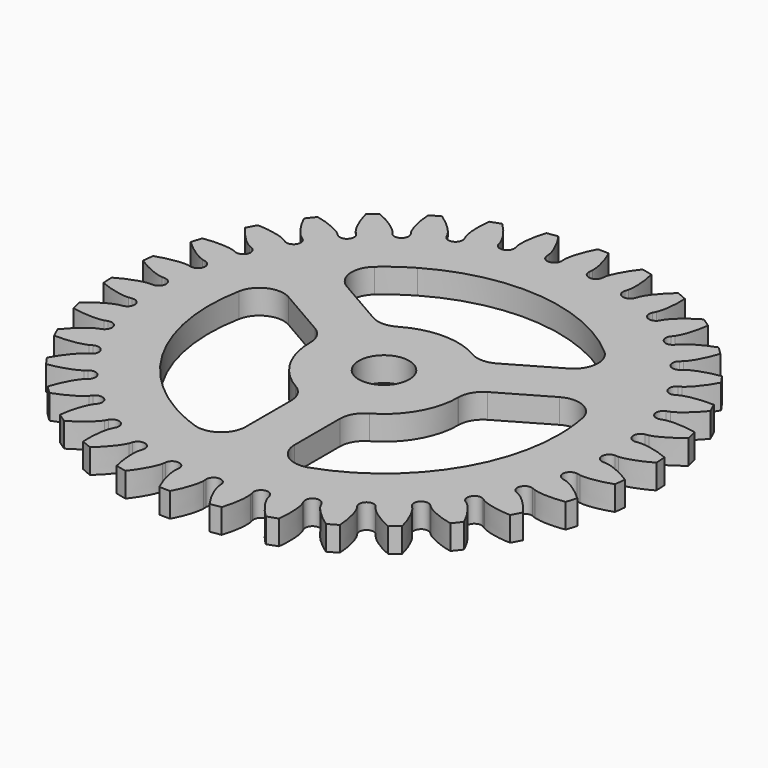
from build123d import *

# Parameters (mm, degrees)
F4_DEPTH  = 6
F6_DEPTH  = 6
F3_R      = 54
F7_DEPTH  = 5
F8_COUNT  = 34
F11_DEPTH = 25
F12_DEPTH = 6
F13_R     = 5
F14_COUNT = 3


with BuildPart() as f4:
    # F2 (on Top) → F4 (new body)
    with BuildSketch(Plane.XY):
        with BuildLine():
            ThreePointArc((53.7142146983, -5.5482555225), (53.9285063473, -2.7778054549), (54, 0))
            ThreePointArc((54, 0), (53.9890176434, 1.0890242883), (53.9560750407, 2.1776056116))
            add(Edge.make_bspline(
                [(47.9243236601, 0), (48.0582701517, 0.0066866969), (47.9929157343, 0.0001974192), (48.5234306024, 0.0528741689), (49.1268875828, 0.1743833571), (50.052741865, 0.4182800977), (51.1888322925, 0.818839597), (52.5028457734, 1.387829983), (53.481906308, 1.9101796025), (53.9560750407, 2.1776056116)],
                knots=[0, 0, 0, 0, 0.0334560849, 0.0914017211, 0.1662090091, 0.2547221185, 0.3550865192, 0.4660435214, 0.5789490517, 0.5789490517, 0.5789490517, 0.5789490517], degree=3))
            Line((47.9243236601, 0), (47.25, 0))
            ThreePointArc((47.25, 0), (47.2268639999, -1.4784507901), (47.1574786566, -2.9554537309))
            Line((47.1574786566, -2.9554537309), (47.8304819075, -2.9976321939))
            add(Edge.make_bspline(
                [(47.8304819075, -2.9976321939), (47.9637478673, -3.0126840547), (47.8989273215, -3.0021196118), (48.4251084829, -3.0878765397), (49.019783507, -3.2468936008), (49.9285692852, -3.548224285), (51.0373803967, -4.0190610835), (52.3132309347, -4.6691279201), (53.2577017523, -5.2516942512), (53.7142146983, -5.5482555225)],
                knots=[0, 0, 0, 0, 0.0334560849, 0.0914017211, 0.1662090091, 0.2547221185, 0.3550865192, 0.4660435214, 0.5789490517, 0.5789490517, 0.5789490517, 0.5789490517], degree=3))
        make_face()
    extrude(amount=F4_DEPTH)

    # F5 (on face) → F6 (join)
    with BuildSketch(Plane(origin=(0, 0, 0), x_dir=(1, 0, 0), z_dir=(0, 0, -1))):
        with BuildLine():
            ThreePointArc((47.25, 0), (47.2268639999, 1.4784507901), (47.1574786566, 2.9554537309))
            ThreePointArc((47.1574786566, 2.9554537309), (45.7489562087, 1.4321844544), (47.25, 0))
        make_face()
    extrude(amount=-F6_DEPTH)


with BuildPart() as f7:
    # F3 (on Top) → F7 (new body)
    with BuildSketch(Plane.XY):
        Circle(F3_R)
    extrude(amount=F7_DEPTH)


with BuildPart() as f8_1:
    # F8: instance of F4
    add(f4.part.rotate(Axis((0, 0, 5), (0, 0, 1)), 1 * 360 / F8_COUNT))


with BuildPart() as f8_2:
    # F8: instance of F4
    add(f4.part.rotate(Axis((0, 0, 5), (0, 0, 1)), 2 * 360 / F8_COUNT))


with BuildPart() as f8_3:
    # F8: instance of F4
    add(f4.part.rotate(Axis((0, 0, 5), (0, 0, 1)), 3 * 360 / F8_COUNT))


with BuildPart() as f8_4:
    # F8: instance of F4
    add(f4.part.rotate(Axis((0, 0, 5), (0, 0, 1)), 4 * 360 / F8_COUNT))


with BuildPart() as f8_5:
    # F8: instance of F4
    add(f4.part.rotate(Axis((0, 0, 5), (0, 0, 1)), 5 * 360 / F8_COUNT))


with BuildPart() as f8_6:
    # F8: instance of F4
    add(f4.part.rotate(Axis((0, 0, 5), (0, 0, 1)), 6 * 360 / F8_COUNT))


with BuildPart() as f8_7:
    # F8: instance of F4
    add(f4.part.rotate(Axis((0, 0, 5), (0, 0, 1)), 7 * 360 / F8_COUNT))


with BuildPart() as f8_8:
    # F8: instance of F4
    add(f4.part.rotate(Axis((0, 0, 5), (0, 0, 1)), 8 * 360 / F8_COUNT))


with BuildPart() as f8_9:
    # F8: instance of F4
    add(f4.part.rotate(Axis((0, 0, 5), (0, 0, 1)), 9 * 360 / F8_COUNT))


with BuildPart() as f8_10:
    # F8: instance of F4
    add(f4.part.rotate(Axis((0, 0, 5), (0, 0, 1)), 10 * 360 / F8_COUNT))


with BuildPart() as f8_11:
    # F8: instance of F4
    add(f4.part.rotate(Axis((0, 0, 5), (0, 0, 1)), 11 * 360 / F8_COUNT))


with BuildPart() as f8_12:
    # F8: instance of F4
    add(f4.part.rotate(Axis((0, 0, 5), (0, 0, 1)), 12 * 360 / F8_COUNT))


with BuildPart() as f8_13:
    # F8: instance of F4
    add(f4.part.rotate(Axis((0, 0, 5), (0, 0, 1)), 13 * 360 / F8_COUNT))


with BuildPart() as f8_14:
    # F8: instance of F4
    add(f4.part.rotate(Axis((0, 0, 5), (0, 0, 1)), 14 * 360 / F8_COUNT))


with BuildPart() as f8_15:
    # F8: instance of F4
    add(f4.part.rotate(Axis((0, 0, 5), (0, 0, 1)), 15 * 360 / F8_COUNT))


with BuildPart() as f8_16:
    # F8: instance of F4
    add(f4.part.rotate(Axis((0, 0, 5), (0, 0, 1)), 16 * 360 / F8_COUNT))


with BuildPart() as f8_17:
    # F8: instance of F4
    add(f4.part.rotate(Axis((0, 0, 5), (0, 0, 1)), 17 * 360 / F8_COUNT))


with BuildPart() as f8_18:
    # F8: instance of F4
    add(f4.part.rotate(Axis((0, 0, 5), (0, 0, 1)), 18 * 360 / F8_COUNT))


with BuildPart() as f8_19:
    # F8: instance of F4
    add(f4.part.rotate(Axis((0, 0, 5), (0, 0, 1)), 19 * 360 / F8_COUNT))


with BuildPart() as f8_20:
    # F8: instance of F4
    add(f4.part.rotate(Axis((0, 0, 5), (0, 0, 1)), 20 * 360 / F8_COUNT))


with BuildPart() as f8_21:
    # F8: instance of F4
    add(f4.part.rotate(Axis((0, 0, 5), (0, 0, 1)), 21 * 360 / F8_COUNT))


with BuildPart() as f8_22:
    # F8: instance of F4
    add(f4.part.rotate(Axis((0, 0, 5), (0, 0, 1)), 22 * 360 / F8_COUNT))


with BuildPart() as f8_23:
    # F8: instance of F4
    add(f4.part.rotate(Axis((0, 0, 5), (0, 0, 1)), 23 * 360 / F8_COUNT))


with BuildPart() as f8_24:
    # F8: instance of F4
    add(f4.part.rotate(Axis((0, 0, 5), (0, 0, 1)), 24 * 360 / F8_COUNT))


with BuildPart() as f8_25:
    # F8: instance of F4
    add(f4.part.rotate(Axis((0, 0, 5), (0, 0, 1)), 25 * 360 / F8_COUNT))


with BuildPart() as f8_26:
    # F8: instance of F4
    add(f4.part.rotate(Axis((0, 0, 5), (0, 0, 1)), 26 * 360 / F8_COUNT))


with BuildPart() as f8_27:
    # F8: instance of F4
    add(f4.part.rotate(Axis((0, 0, 5), (0, 0, 1)), 27 * 360 / F8_COUNT))


with BuildPart() as f8_28:
    # F8: instance of F4
    add(f4.part.rotate(Axis((0, 0, 5), (0, 0, 1)), 28 * 360 / F8_COUNT))


with BuildPart() as f8_29:
    # F8: instance of F4
    add(f4.part.rotate(Axis((0, 0, 5), (0, 0, 1)), 29 * 360 / F8_COUNT))


with BuildPart() as f8_30:
    # F8: instance of F4
    add(f4.part.rotate(Axis((0, 0, 5), (0, 0, 1)), 30 * 360 / F8_COUNT))


with BuildPart() as f8_31:
    # F8: instance of F4
    add(f4.part.rotate(Axis((0, 0, 5), (0, 0, 1)), 31 * 360 / F8_COUNT))


with BuildPart() as f8_32:
    # F8: instance of F4
    add(f4.part.rotate(Axis((0, 0, 5), (0, 0, 1)), 32 * 360 / F8_COUNT))


with BuildPart() as f8_33:
    # F8: instance of F4
    add(f4.part.rotate(Axis((0, 0, 5), (0, 0, 1)), 33 * 360 / F8_COUNT))


with BuildPart() as f7_1:
    add(f7.part)

    # F9: cut F8_5, F8_6, F8_7, F8_8, F8_9, F8_10, F8_11, F8_12, F8_13, F8_14, F8_15, F8_16, F8_17, F8_18, F8_19, F8_20, F8_21, F8_22, F8_23, F8_24, F8_25, F8_26, F8_27, F8_28, F8_29, F4, F8_1, F8_2, F8_3, F8_4, F8_30, F8_31, F8_32, F8_33
    add(f8_5.part, mode=Mode.SUBTRACT)
    add(f8_6.part, mode=Mode.SUBTRACT)
    add(f8_7.part, mode=Mode.SUBTRACT)
    add(f8_8.part, mode=Mode.SUBTRACT)
    add(f8_9.part, mode=Mode.SUBTRACT)
    add(f8_10.part, mode=Mode.SUBTRACT)
    add(f8_11.part, mode=Mode.SUBTRACT)
    add(f8_12.part, mode=Mode.SUBTRACT)
    add(f8_13.part, mode=Mode.SUBTRACT)
    add(f8_14.part, mode=Mode.SUBTRACT)
    add(f8_15.part, mode=Mode.SUBTRACT)
    add(f8_16.part, mode=Mode.SUBTRACT)
    add(f8_17.part, mode=Mode.SUBTRACT)
    add(f8_18.part, mode=Mode.SUBTRACT)
    add(f8_19.part, mode=Mode.SUBTRACT)
    add(f8_20.part, mode=Mode.SUBTRACT)
    add(f8_21.part, mode=Mode.SUBTRACT)
    add(f8_22.part, mode=Mode.SUBTRACT)
    add(f8_23.part, mode=Mode.SUBTRACT)
    add(f8_24.part, mode=Mode.SUBTRACT)
    add(f8_25.part, mode=Mode.SUBTRACT)
    add(f8_26.part, mode=Mode.SUBTRACT)
    add(f8_27.part, mode=Mode.SUBTRACT)
    add(f8_28.part, mode=Mode.SUBTRACT)
    add(f8_29.part, mode=Mode.SUBTRACT)
    add(f4.part, mode=Mode.SUBTRACT)
    add(f8_1.part, mode=Mode.SUBTRACT)
    add(f8_2.part, mode=Mode.SUBTRACT)
    add(f8_3.part, mode=Mode.SUBTRACT)
    add(f8_4.part, mode=Mode.SUBTRACT)
    add(f8_30.part, mode=Mode.SUBTRACT)
    add(f8_31.part, mode=Mode.SUBTRACT)
    add(f8_32.part, mode=Mode.SUBTRACT)
    add(f8_33.part, mode=Mode.SUBTRACT)

    # F10 (on face) → F11 (cut)
    with BuildSketch(Plane(origin=(0, 0, 0), x_dir=(1, 0, 0), z_dir=(0, 0, -1))):
        with BuildLine():
            ThreePointArc((3.6019813034, 3.6938978168), (-4.7541099418, -2.0043924396), (5.159375, 0))
            ThreePointArc((5.159375, 0), (5.1193762018, 0.6412001991), (5, 1.2724584043))
            ThreePointArc((5, 1.2724584043), (4.4681498177, 2.5796875), (3.6019813034, 3.6938978168))
        make_face()
    extrude(amount=-F11_DEPTH, mode=Mode.SUBTRACT)


with BuildPart() as f12:
    # F10 (on face) → F12 (new body)
    with BuildSketch(Plane(origin=(0, 0, 0), x_dir=(1, 0, 0), z_dir=(0, 0, -1))):
        with BuildLine():
            Line((5, 35.4202030285), (5, 14.3110674092))
            ThreePointArc((5, 14.3110674092), (12.3613010114, 8.7752428853), (15.159375, 0))
            ThreePointArc((15.159375, 0), (15.0928221424, -1.4189327573), (14.8937479316, -2.8254066857))
            Line((14.8937479316, -2.8254066857), (33.1747956299, -13.3799744953))
            ThreePointArc((33.1747956299, -13.3799744953), (35.116225679, -6.814798357), (35.7713681955, 0))
            ThreePointArc((35.7713681955, 0), (27.0041443445, 23.4599013383), (5, 35.4202030285))
        make_face()
    extrude(amount=-F12_DEPTH)

    # F13
    f13_edges = [f12.edges().sort_by_distance(p)[0] for p in [
        (5, -35.420203, 3),
        (5, -14.311067, 3),
        (14.893748, 2.825407, 3),
        (33.174796, 13.379974, 3),
    ]]
    fillet(f13_edges, radius=F13_R)


with BuildPart() as f14_1:
    # F14: instance of F12
    add(f12.part.rotate(Axis((0, 0, 5), (0, 0, -1)), 1 * 360 / F14_COUNT))


with BuildPart() as f14_2:
    # F14: instance of F12
    add(f12.part.rotate(Axis((0, 0, 5), (0, 0, -1)), 2 * 360 / F14_COUNT))


with BuildPart() as f7_2:
    add(f7_1.part)

    # F15: cut F14_2, F14_1, F12
    add(f14_2.part, mode=Mode.SUBTRACT)
    add(f14_1.part, mode=Mode.SUBTRACT)
    add(f12.part, mode=Mode.SUBTRACT)


solid = f7_2.part
